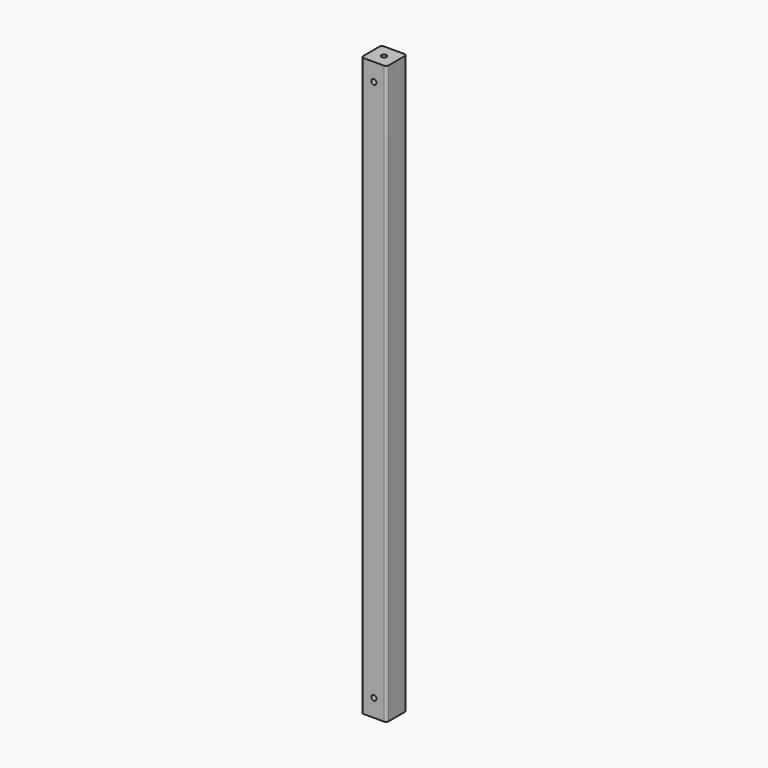
from build123d import *

# Parameters (mm, degrees)
F0_W     = 40
F0_H     = 40
F1_DEPTH = 910
F3_D     = 8
F4_R     = 4
F6_D     = 8


with BuildPart() as f1:
    # F0 (on Top) → F1 (new body)
    with BuildSketch(Plane.XY):
        Rectangle(F0_W, F0_H)
    extrude(amount=F1_DEPTH)

    # F3 (through all)
    with Locations(Plane.XY.offset(910)):
        with Locations((0, 0)):
            Hole(F3_D / 2)

    # F4
    f4_edges = [f1.edges().sort_by_distance(p)[0] for p in [
        (-20, -20, 455),
        (20, -20, 455),
        (20, 20, 455),
        (-20, 20, 455),
    ]]
    fillet(f4_edges, radius=F4_R)

    # F6 (through all)
    with Locations(Plane.XZ.offset(20)):
        with Locations((0, 27.83172), (0, 882.16828)):
            Hole(F6_D / 2)


solid = f1.part
